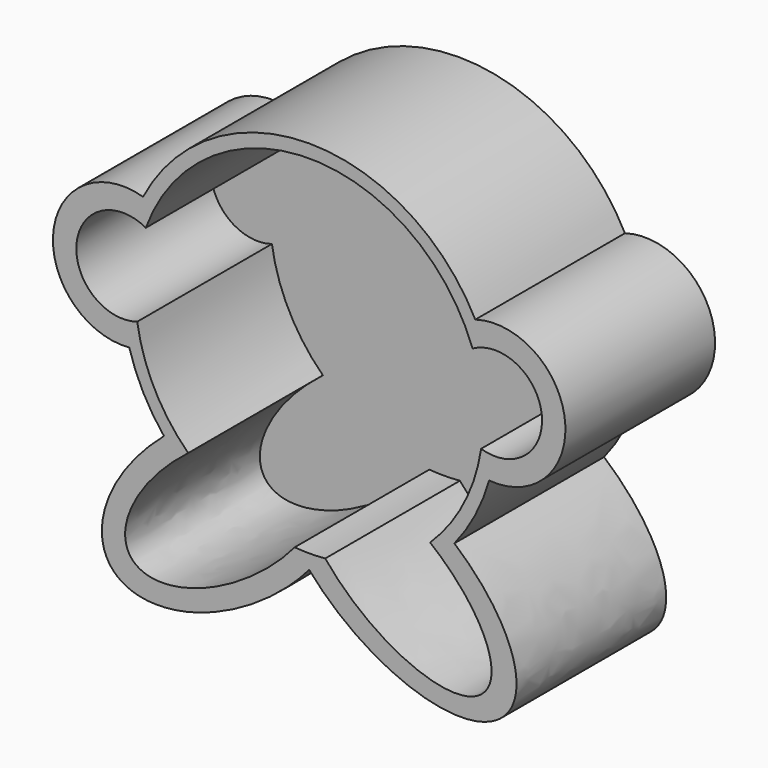
from build123d import *

# Parameters (mm, degrees)
F1_DEPTH = 25.4
F3_DEPTH = 22.86


with BuildPart() as f1:
    # F0 (on Front) → F1 (new body)
    with BuildSketch(Plane.XZ):
        with BuildLine():
            ThreePointArc((24.4313025608, -6.9477662011), (25.1566600033, -3.5074859199), (25.4, 0))
            ThreePointArc((25.4, 0), (24.6798120709, 6.0055704265), (22.5600884923, 11.6705787011))
            ThreePointArc((22.5600884923, 11.6705787011), (0, 25.4), (-22.5600884923, 11.6705787011))
            ThreePointArc((-22.5600884923, 11.6705787011), (-25.2726809025, 2.54), (-24.4313025608, -6.9477662011))
            ThreePointArc((-24.4313025608, -6.9477662011), (-22.5365266583, -11.7160132374), (-19.7221267665, -16.0061774264))
            ThreePointArc((-19.7221267665, -16.0061774264), (-10.9931287537, -22.8978409507), (-0.1565220091, -25.3995177289))
            ThreePointArc((-0.1565220091, -25.3995177289), (0, -25.4), (0.1565220091, -25.3995177289))
            ThreePointArc((0.1565220091, -25.3995177289), (10.9931287537, -22.8978409507), (19.7221267665, -16.0061774264))
            ThreePointArc((19.7221267665, -16.0061774264), (22.5365266583, -11.7160132374), (24.4313025608, -6.9477662011))
        make_face()
        with BuildLine():
            ThreePointArc((22.5600884923, 11.6705787011), (24.6798120709, 6.0055704265), (25.4, 0))
            ThreePointArc((25.4, 0), (25.1566600033, -3.5074859199), (24.4313025608, -6.9477662011))
            ThreePointArc((24.4313025608, -6.9477662011), (34.7499362409, 3.4925), (22.5600884923, 11.6705787011))
        make_face()
        with BuildLine():
            ThreePointArc((-24.4313025608, -6.9477662011), (-25.2726809025, 2.54), (-22.5600884923, 11.6705787011))
            ThreePointArc((-22.5600884923, 11.6705787011), (-34.7499362409, 3.4925), (-24.4313025608, -6.9477662011))
        make_face()
        with BuildLine():
            add(Edge.make_bspline(
                [(0, -25.582961452), (13.4042677186, -41.1639212512), (24.81770277, -35.6217196533), (36.2311378214, -30.0795180555), (19.7221267665, -16.0061774264)],
                knots=[4.3005069343, 4.3005069343, 4.3005069343, 6.0077388115, 6.0077388115, 7.7149706887, 7.7149706887, 7.7149706887], degree=2, weights=[1, 0.6572622534, 1, 0.6572622534, 1]))
            ThreePointArc((19.7221267665, -16.0061774264), (10.9931287537, -22.8978409507), (0.1565220091, -25.3995177289))
            add(Edge.make_bspline(
                [(0, -25.582961452), (0.0787939408, -25.4913723216), (0.1565220091, -25.3995177289)],
                knots=[1.9826783728, 1.9826783728, 1.9826783728, 1.9961590294, 1.9961590294, 1.9961590294], degree=2, weights=[1, 0.9999772841, 1]))
        make_face()
        with BuildLine():
            add(Edge.make_bspline(
                [(0, -25.582961452), (0.0787939408, -25.4913723216), (0.1565220091, -25.3995177289)],
                knots=[1.9826783728, 1.9826783728, 1.9826783728, 1.9961590294, 1.9961590294, 1.9961590294], degree=2, weights=[1, 0.9999772841, 1]))
            ThreePointArc((0.1565220091, -25.3995177289), (0, -25.4), (-0.1565220091, -25.3995177289))
            add(Edge.make_bspline(
                [(-0.1565220091, -25.3995177289), (-0.0787939408, -25.4913723216), (0, -25.582961452)],
                knots=[4.2870262778, 4.2870262778, 4.2870262778, 4.3005069343, 4.3005069343, 4.3005069343], degree=2, weights=[1, 0.9999772841, 1]))
        make_face()
        with BuildLine():
            add(Edge.make_bspline(
                [(-19.7221267665, -16.0061774264), (-36.2311378214, -30.0795180555), (-24.81770277, -35.6217196533), (-13.4042677186, -41.1639212512), (0, -25.582961452)],
                knots=[4.8513999257, 4.8513999257, 4.8513999257, 6.5586318028, 6.5586318028, 8.26586368, 8.26586368, 8.26586368], degree=2, weights=[1, 0.6572622534, 1, 0.6572622534, 1]))
            add(Edge.make_bspline(
                [(-0.1565220091, -25.3995177289), (-0.0787939408, -25.4913723216), (0, -25.582961452)],
                knots=[4.2870262778, 4.2870262778, 4.2870262778, 4.3005069343, 4.3005069343, 4.3005069343], degree=2, weights=[1, 0.9999772841, 1]))
            ThreePointArc((-0.1565220091, -25.3995177289), (-10.9931287537, -22.8978409507), (-19.7221267665, -16.0061774264))
        make_face()
    extrude(amount=F1_DEPTH)

    # F2 (on face) → F3 (cut)
    with BuildSketch(Plane.XZ.offset(25.4)):
        with BuildLine():
            ThreePointArc((23.351695127, -3.5124634365), (23.5486191458, -1.7611362874), (23.6143825814, 0))
            ThreePointArc((23.6143825814, 0), (23.2544665826, 4.1071703956), (22.185689826, 8.0891428251))
            ThreePointArc((22.185689826, 8.0891428251), (0, 23.6143825814), (-22.185689826, 8.0891428251))
            ThreePointArc((-22.185689826, 8.0891428251), (-23.4960140035, 2.3614382581), (-23.351695127, -3.5124634365))
            ThreePointArc((-23.351695127, -3.5124634365), (-20.9965928115, -10.8065792463), (-16.4293730471, -16.9621568787))
            ThreePointArc((-16.4293730471, -16.9621568787), (-9.770026769, -21.4985032417), (-1.9731665258, -23.5318014304))
            ThreePointArc((-1.9731665258, -23.5318014304), (0.1040609975, -23.6141532985), (2.1804820568, -23.5134974578))
            ThreePointArc((2.1804820568, -23.5134974578), (9.8602073415, -21.4572919047), (16.4223174888, -16.9689879779))
            ThreePointArc((16.4223174888, -16.9689879779), (20.9943452643, -10.8109449922), (23.351695127, -3.5124634365))
        make_face()
        with BuildLine():
            ThreePointArc((22.185689826, 8.0891428251), (23.2544665826, 4.1071703956), (23.6143825814, 0))
            ThreePointArc((23.6143825814, 0), (23.5486191458, -1.7611362874), (23.351695127, -3.5124634365))
            ThreePointArc((23.351695127, -3.5124634365), (31.5908511281, 3.175), (22.185689826, 8.0891428251))
        make_face()
        with BuildLine():
            ThreePointArc((-23.351695127, -3.5124634365), (-23.4960140035, 2.3614382581), (-22.185689826, 8.0891428251))
            ThreePointArc((-22.185689826, 8.0891428251), (-31.5908511281, 3.175), (-23.351695127, -3.5124634365))
        make_face()
        with BuildLine():
            add(Edge.make_bspline(
                [(2.1804820568, -23.5134974578), (13.4687492266, -37.5371098015), (22.5481347009, -33.3648860322), (31.6275201752, -29.1926622629), (16.4223174888, -16.9689879779)],
                knots=[4.2604725812, 4.2604725812, 4.2604725812, 6.0486825547, 6.0486825547, 7.8368925283, 7.8368925283, 7.8368925283], degree=2, weights=[1, 0.6262168632, 1, 0.6262168632, 1]))
            ThreePointArc((16.4223174888, -16.9689879779), (9.8602073415, -21.4572919047), (2.1804820568, -23.5134974578))
        make_face()
        with BuildLine():
            ThreePointArc((-1.9731665258, -23.5318014304), (-9.770026769, -21.4985032417), (-16.4293730471, -16.9621568787))
            add(Edge.make_bspline(
                [(-16.4293730471, -16.9621568787), (-32.0185075136, -28.8631149782), (-22.7397116676, -33.079877549), (-13.4609158217, -37.2966401199), (-1.9731665258, -23.5318014304)],
                knots=[4.7446976042, 4.7446976042, 4.7446976042, 6.5383423328, 6.5383423328, 8.3319870613, 8.3319870613, 8.3319870613], degree=2, weights=[1, 0.6240959533, 1, 0.6240959533, 1]))
        make_face()
    extrude(amount=-F3_DEPTH, mode=Mode.SUBTRACT)


solid = f1.part
